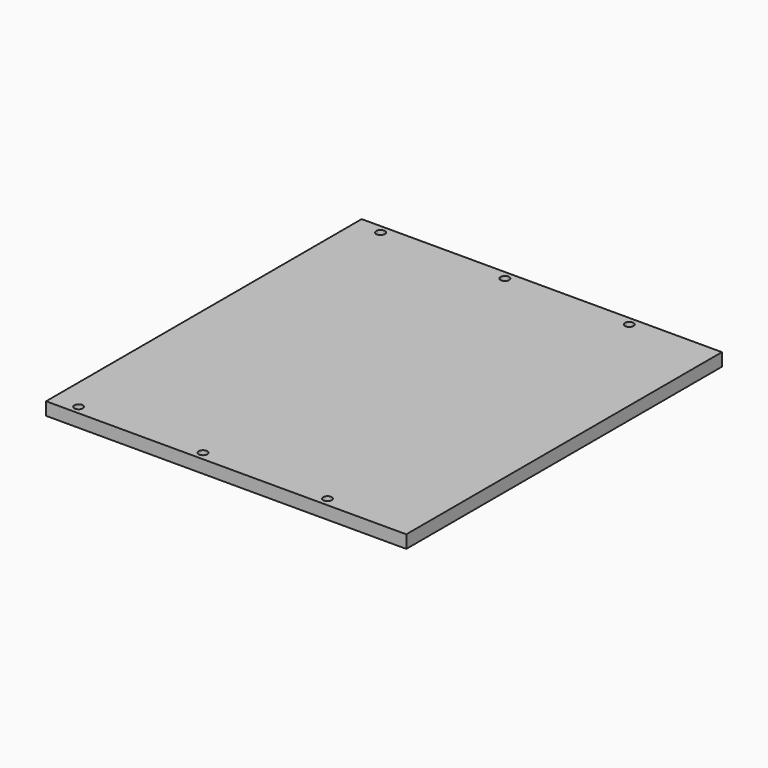
from build123d import *

# Parameters (mm, degrees)
F0_W     = 420
F0_H     = 460
F1_DEPTH = 15
F2_R     = 5
F3_DEPTH = 15
F4_W     = 402
F4_H     = 402
F5_DEPTH = 5.5


with BuildPart() as f1:
    # F0 (on Top) → F1 (new body)
    with BuildSketch(Plane.XY):
        with Locations((135.56531, 178.600564)):
            Rectangle(F0_W, F0_H)
    extrude(amount=F1_DEPTH)

    # F2 (on face) → F3 (cut)
    with BuildSketch(Plane.XY.offset(15)):
        with Locations((245.56531, -41.399436)):
            Circle(F2_R)
        with Locations((-44.43469, -41.399436)):
            Circle(F2_R)
        with Locations((100.56531, -41.399436)):
            Circle(F2_R)
        with Locations((245.56531, 398.600564)):
            Circle(F2_R)
        with Locations((100.56531, 398.600564)):
            Circle(F2_R)
        with Locations((-44.43469, 398.600564)):
            Circle(F2_R)
    extrude(amount=-F3_DEPTH, mode=Mode.SUBTRACT)

    # F4 (on face) → F5 (cut)
    with BuildSketch(Plane(origin=(0, 0, 0), x_dir=(1, 0, 0), z_dir=(0, 0, -1))):
        with Locations((135.56531, -178.600564)):
            Rectangle(F4_W, F4_H)
    extrude(amount=-F5_DEPTH, mode=Mode.SUBTRACT)


solid = f1.part
